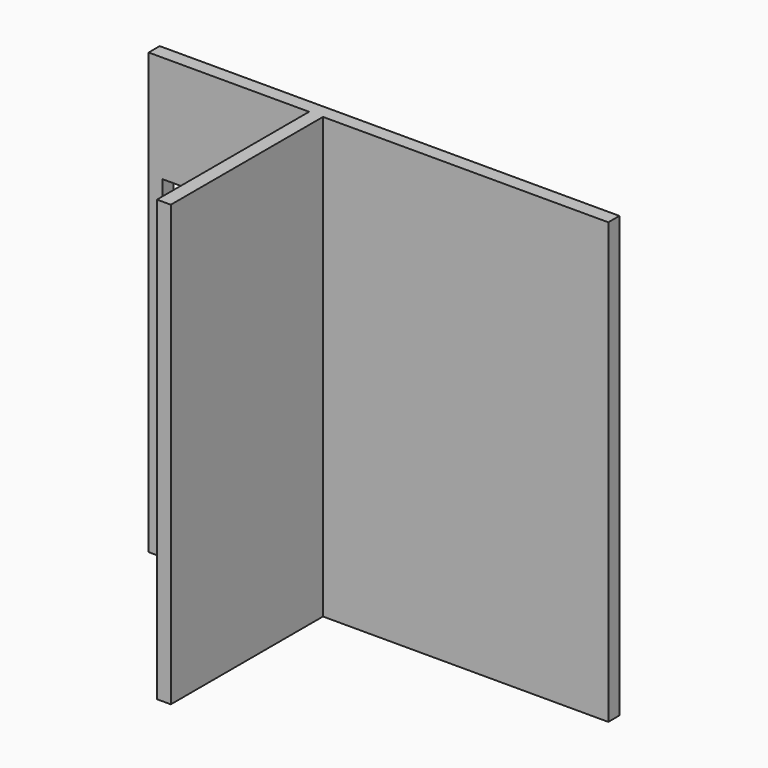
from build123d import *

# Parameters (mm, degrees)
F1_DEPTH = 12.7
F2_W     = 38.1
F2_H     = 2743.2
F2_H_2   = 609.6
F3_DEPTH = 76.2
F4_W     = 12.7
F4_H     = 2819.4
F5_DEPTH = 1219.2
F6_W     = 1143
F6_H     = 38.1
F7_DEPTH = 76.2


with BuildPart() as f1:
    # F0 (on Front) → F1 (new body)
    with BuildSketch(Plane.XZ):
        Polygon((1473.2, -1409.7), (1473.2, 1409.7), (-1473.2, 1409.7), (-1473.2, -1409.7), (-1384.3, -1409.7), (-1384.3, 723.9), (-495.3, 723.9), (-495.3, -1409.7), align=None)
    extrude(amount=F1_DEPTH)

    # F2 (on face) → F3 (join)
    with BuildSketch(Plane(origin=(0, 0, 0), x_dir=(-1, 0, 0), z_dir=(0, 1, 0))):
        Polygon((1473.2, 1409.7), (-1473.2, 1409.7), (-1473.2, 1371.6), (-1435.1, 1371.6), (-1079.5, 1371.6), (-1041.4, 1371.6), (-317.5, 1371.6), (-279.4, 1371.6), (457.2, 1371.6), (495.3, 1371.6), (901.7, 1371.6), (939.8, 1371.6), (1041.4, 1371.6), (1079.5, 1371.6), (1384.3, 1371.6), (1422.4, 1371.6), (1435.1, 1371.6), (1473.2, 1371.6), align=None)
        with Locations((-1454.15, 0)):
            Rectangle(F2_W, F2_H)
        with Locations((1454.15, 0)):
            Rectangle(F2_W, F2_H)
        Polygon((-1435.1, -1371.6), (-1473.2, -1371.6), (-1473.2, -1409.7), (495.3, -1409.7), (495.3, -1371.6), (457.2, -1371.6), (-279.4, -1371.6), (-317.5, -1371.6), (-1041.4, -1371.6), (-1079.5, -1371.6), align=None)
        Polygon((1473.2, -1409.7), (1473.2, -1371.6), (1435.1, -1371.6), (1422.4, -1371.6), (1384.3, -1371.6), (1384.3, -1409.7), align=None)
        Polygon((1422.4, -1371.6), (1422.4, 1371.6), (1384.3, 1371.6), (1384.3, 762), (1384.3, 723.9), (1384.3, -1371.6), align=None)
        Polygon((457.2, -1371.6), (495.3, -1371.6), (495.3, 723.9), (495.3, 762), (495.3, 1371.6), (457.2, 1371.6), align=None)
        Polygon((1384.3, 723.9), (1384.3, 762), (939.8, 762), (901.7, 762), (495.3, 762), (495.3, 723.9), align=None)
        with Locations((-1060.45, 0)):
            Rectangle(F2_W, F2_H)
        with Locations((-298.45, 0)):
            Rectangle(F2_W, F2_H)
        with Locations((920.75, 1066.8)):
            Rectangle(F2_W, F2_H_2)
    extrude(amount=F3_DEPTH)

    # F4 (on face) → F5 (join)
    with BuildSketch(Plane.XZ.offset(12.7)):
        with Locations((-361.95, 0)):
            Rectangle(F4_W, F4_H)
    extrude(amount=F5_DEPTH)

    # F6 (on face) → F7 (join)
    with BuildSketch(Plane(origin=(-368.3, 0, 0), x_dir=(0, -1, 0), z_dir=(-1, 0, 0))):
        Polygon((1231.9, 1371.6), (1231.9, 1409.7), (12.7, 1409.7), (12.7, 1371.6), (50.8, 1371.6), (1193.8, 1371.6), align=None)
        Polygon((1231.9, -1409.7), (1231.9, 1371.6), (1193.8, 1371.6), (1193.8, -63.5), (1193.8, -101.6), (1193.8, -1371.6), (1193.8, -1409.7), align=None)
        Polygon((50.8, 1371.6), (12.7, 1371.6), (12.7, -1371.6), (50.8, -1371.6), (50.8, -101.6), (50.8, -63.5), align=None)
        Polygon((50.8, -1371.6), (12.7, -1371.6), (12.7, -1409.7), (1193.8, -1409.7), (1193.8, -1371.6), align=None)
        with Locations((622.3, -82.55)):
            Rectangle(F6_W, F6_H)
    extrude(amount=F7_DEPTH)


solid = f1.part
